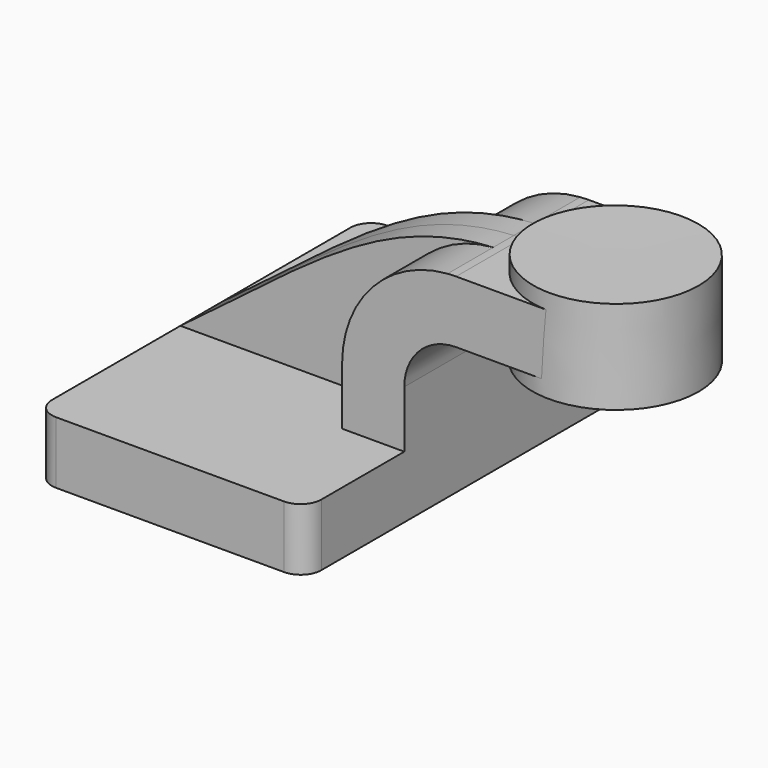
from build123d import *

# Parameters (mm, degrees)
F1_DEPTH = 63.5
F0_W     = 25.2742138386
F0_H     = 19.05
F2_DEPTH = 25.4
F3_DEPTH = 7.9375
F5_R     = 6.35


with BuildPart() as f1:
    # F0 (on Front) → F1 (new body, symmetric)
    with BuildSketch(Plane.XZ):
        Polygon((-41.275, 10.3035005007), (-41.275, -8.7464994993), (41.275, -8.7464994993), (41.275, 10.3035005007), (22.225, 10.3035005007), align=None)
    extrude(amount=F1_DEPTH, both=True)

    # F0 (on Front) → F2 (join, symmetric)
    with BuildSketch(Plane.XZ):
        with Locations((72.9621069193, 53.1787005007)):
            Rectangle(F0_W, F0_H)
        with BuildLine():
            Line((22.225, 10.3035005007), (41.275, 10.3035005007))
            Line((41.275, 10.3035005007), (41.275, 27.7787005007))
            ThreePointArc((41.275, 27.7787005007), (45.9246798487, 39.0040206521), (57.15, 43.6537005007))
            Line((57.15, 43.6537005007), (60.325, 43.6537005007))
            Line((60.325, 43.6537005007), (60.325, 62.7037005007))
            Line((60.325, 62.7037005007), (57.15, 62.7037005007))
            add(Edge.make_bspline(
                [(54.5407420492, 62.6060948613), (55.4032018072, 62.651337728), (56.2728292952, 62.6839548454), (57.15, 62.7037005007)],
                knots=[108.849692603, 108.849692603, 108.849692603, 108.849692603, 111.5045361635, 111.5045361635, 111.5045361635, 111.5045361635], degree=3))
            ThreePointArc((54.5407420492, 62.6060948613), (31.5483988886, 51.5339871867), (22.225, 27.7787005007))
            Line((22.225, 27.7787005007), (22.225, 10.3035005007))
        make_face()
    extrude(amount=F2_DEPTH, both=True)

    # F0 (on Front) → F3 (join, symmetric)
    with BuildSketch(Plane.XZ):
        with BuildLine():
            add(Edge.make_bspline(
                [(-41.275, 10.3035005007), (-4.1324779121, 37.6718258525), (19.1795324712, 60.7511184661), (54.5407420492, 62.6060948613)],
                knots=[0, 0, 0, 0, 108.849692603, 108.849692603, 108.849692603, 108.849692603], degree=3))
            Line((-41.275, 10.3035005007), (22.225, 10.3035005007))
            Line((22.225, 10.3035005007), (22.225, 27.7787005007))
            ThreePointArc((22.225, 27.7787005007), (31.5483988886, 51.5339871867), (54.5407420492, 62.6060948613))
        make_face()
    extrude(amount=F3_DEPTH, both=True)

    # F0 (on Front) → F4 (revolve)
    with BuildSketch(Plane.XZ):
        Polygon((111.125, 67.4535005007), (85.725, 67.4535005007), (85.5992138386, 38.8785005007), (111.125, 38.8785005007), align=None)
    revolve(axis=Axis((85.6621069193, 0, 53.1660005007), (-0.0044019228, 0, -0.9999903115)))

    # F5
    f5_edges = [f1.edges().sort_by_distance(p)[0] for p in [
        (41.275, 63.5, 0.778501),
        (-41.275, 63.5, 0.778501),
        (41.275, -63.5, 0.778501),
        (-41.275, -63.5, 0.778501),
    ]]
    fillet(f5_edges, radius=F5_R)


solid = f1.part
